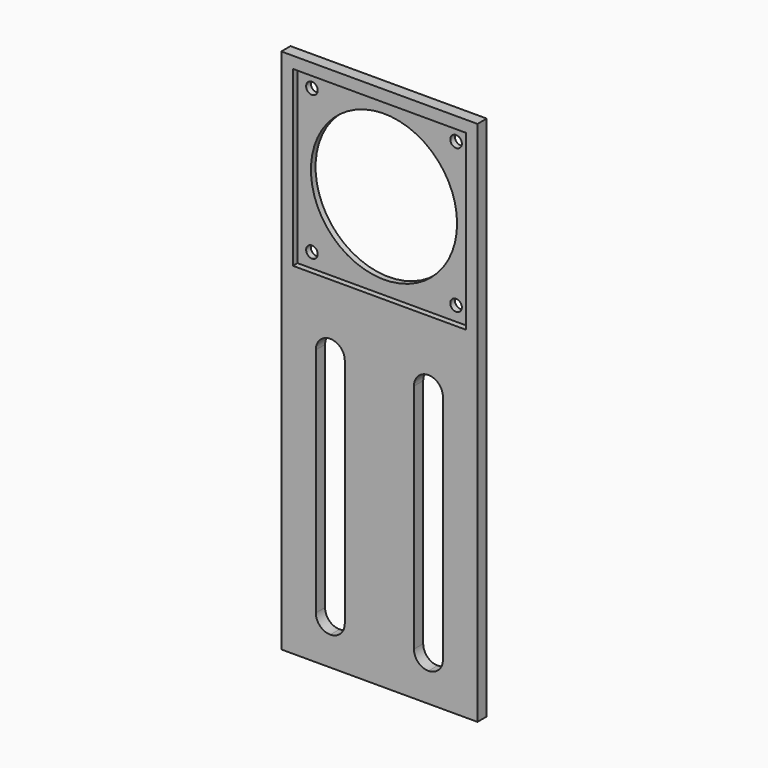
from build123d import *

# Parameters (mm, degrees)
F0_W     = 67.8
F0_H     = 4
F1_DEPTH = 4
F0_W_2   = 23.9
F0_H_2   = 80
F2_DEPTH = 4
F0_R     = 2
F0_R_2   = 25.25
F3_DEPTH = 2


with BuildPart() as f1:
    # F0 (on Front) → F1 (new body)
    with BuildSketch(Plane.XZ):
        Polygon((-32.1510285139, 39.2757860942), (-32.1510285139, -24.6242139058), (-32.1510285139, -28.6242139058), (35.6489714861, -28.6242139058), (35.6489714861, 39.2757860942), align=None)
        Polygon((31.6489714861, 35.2757860942), (31.6489714861, -24.6242139058), (-23.1510285139, -24.6242139058), (-28.1510285139, -24.6242139058), (-28.1510285139, 35.2757860942), align=None, mode=Mode.SUBTRACT)
        with Locations((1.7489714861, -30.6242139058)):
            Rectangle(F0_W, F0_H)
    extrude(amount=F1_DEPTH)

    # F0 (on Front) → F2 (join)
    with BuildSketch(Plane.XZ):
        Polygon((-32.1510285139, 39.2757860942), (-32.1510285139, -24.6242139058), (-32.1510285139, -28.6242139058), (35.6489714861, -28.6242139058), (35.6489714861, 39.2757860942), align=None)
        Polygon((31.6489714861, 35.2757860942), (31.6489714861, -24.6242139058), (-23.1510285139, -24.6242139058), (-28.1510285139, -24.6242139058), (-28.1510285139, 35.2757860942), align=None, mode=Mode.SUBTRACT)
        with Locations((1.7489714861, -30.6242139058)):
            Rectangle(F0_W, F0_H)
        with BuildLine():
            Line((35.6489714861, -32.6242139058), (-32.1510285139, -32.6242139058))
            Line((-32.1510285139, -32.6242139058), (-32.1510285139, -142.6242139058))
            Line((-32.1510285139, -142.6242139058), (-15.2010285139, -142.6242139058))
            Line((-15.2010285139, -142.6242139058), (-15.2010285139, -132.6242139058))
            ThreePointArc((-15.2010285139, -132.6242139058), (-18.7365624198, -131.1597478117), (-20.2010285139, -127.6242139058))
            Line((-20.2010285139, -127.6242139058), (-20.2010285139, -47.6242139058))
            ThreePointArc((-20.2010285139, -47.6242139058), (-18.7365624198, -44.0886799999), (-15.2010285139, -42.6242139058))
            Line((-15.2010285139, -42.6242139058), (18.6989714861, -42.6242139058))
            ThreePointArc((18.6989714861, -42.6242139058), (22.234505392, -44.0886799999), (23.6989714861, -47.6242139058))
            Line((23.6989714861, -47.6242139058), (23.6989714861, -127.6242139058))
            ThreePointArc((23.6989714861, -127.6242139058), (22.234505392, -131.1597478117), (18.6989714861, -132.6242139058))
            Line((18.6989714861, -132.6242139058), (18.6989714861, -142.6242139058))
            Line((18.6989714861, -142.6242139058), (35.6489714861, -142.6242139058))
            Line((35.6489714861, -142.6242139058), (35.6489714861, -32.6242139058))
        make_face()
        with BuildLine():
            Line((-15.2010285139, -132.6242139058), (-15.2010285139, -142.6242139058))
            Line((-15.2010285139, -142.6242139058), (1.7489714861, -142.6242139058))
            Line((1.7489714861, -142.6242139058), (18.6989714861, -142.6242139058))
            Line((18.6989714861, -142.6242139058), (18.6989714861, -132.6242139058))
            ThreePointArc((18.6989714861, -132.6242139058), (15.1634375802, -131.1597478117), (13.6989714861, -127.6242139058))
            Line((13.6989714861, -127.6242139058), (-10.2010285139, -127.6242139058))
            ThreePointArc((-10.2010285139, -127.6242139058), (-11.665494608, -131.1597478117), (-15.2010285139, -132.6242139058))
        make_face()
        with Locations((1.7489714861, -87.6242139058)):
            Rectangle(F0_W_2, F0_H_2)
        with BuildLine():
            ThreePointArc((-15.2010285139, -42.6242139058), (-11.665494608, -44.0886799999), (-10.2010285139, -47.6242139058))
            Line((-10.2010285139, -47.6242139058), (13.6989714861, -47.6242139058))
            ThreePointArc((13.6989714861, -47.6242139058), (15.1634375802, -44.0886799999), (18.6989714861, -42.6242139058))
            Line((18.6989714861, -42.6242139058), (-15.2010285139, -42.6242139058))
        make_face()
    extrude(amount=F2_DEPTH)

    # F0 (on Front) → F3 (join)
    with BuildSketch(Plane.XZ):
        Polygon((-23.1510285139, -24.6242139058), (31.6489714861, -24.6242139058), (31.6489714861, 35.2757860942), (-28.1510285139, 35.2757860942), (-28.1510285139, -24.6242139058), align=None)
        with BuildLine():
            ThreePointArc((-21.1510285139, -19.6242139058), (-21.7368149515, -21.0384274682), (-23.1510285139, -21.6242139058))
            ThreePointArc((-23.1510285139, -21.6242139058), (-24.5652420763, -18.2100003434), (-21.1510285139, -19.6242139058))
        make_face(mode=Mode.SUBTRACT)
        with Locations((-23.1510285139, 30.1757860942)):
            Circle(F0_R, mode=Mode.SUBTRACT)
        with Locations((26.6489714861, -19.6242139058)):
            Circle(F0_R, mode=Mode.SUBTRACT)
        with Locations((1.7489714861, 5.3257860942)):
            Circle(F0_R_2, mode=Mode.SUBTRACT)
        with Locations((26.6489714861, 30.1757860942)):
            Circle(F0_R, mode=Mode.SUBTRACT)
    extrude(amount=F3_DEPTH)


solid = f1.part
